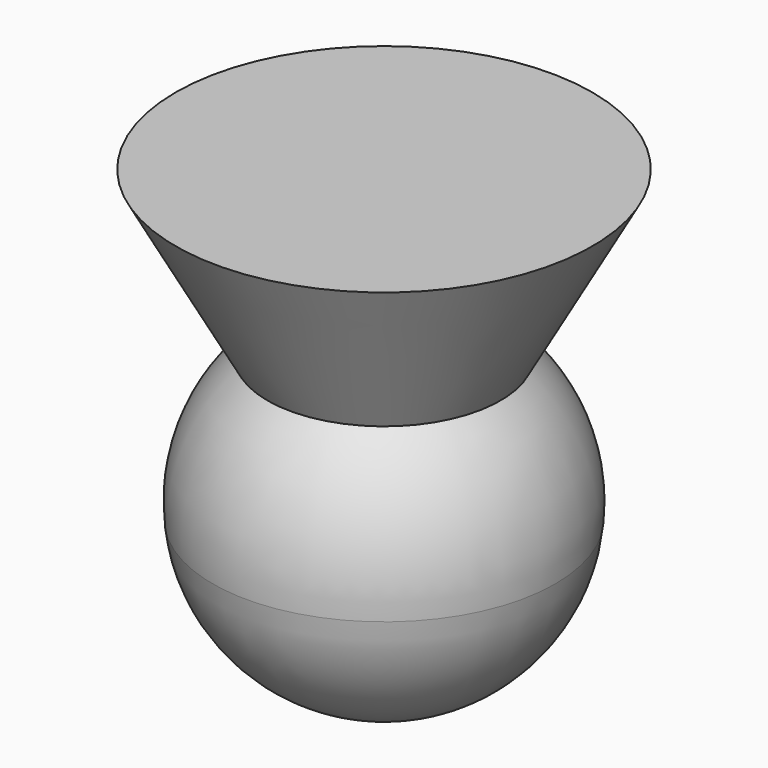
from build123d import *


with BuildPart() as f1:
    # F0 (on Front) → F1 (revolve)
    with BuildSketch(Plane.XZ):
        with BuildLine():
            ThreePointArc((-32.724405, 18.518691), (-35.605542, 14.269601), (-36.28869, 9.181475))
            ThreePointArc((-36.28869, 9.181475), (-34.196045, 3.680792), (-29.603829, 0))
            Line((-29.603829, 0), (-25.139755, 0))
            Line((-25.139755, 0), (-25.139755, 10.274508))
            Line((-25.139755, 10.274508), (-25.139755, 29.293278))
            Line((-25.139755, 29.293278), (-38.693361, 29.293278))
            Line((-38.693361, 29.293278), (-32.724405, 18.518691))
        make_face()
    revolve(axis=Axis((-25.139755, 0, -10.930327), (0, 0, -1)))


solid = f1.part
